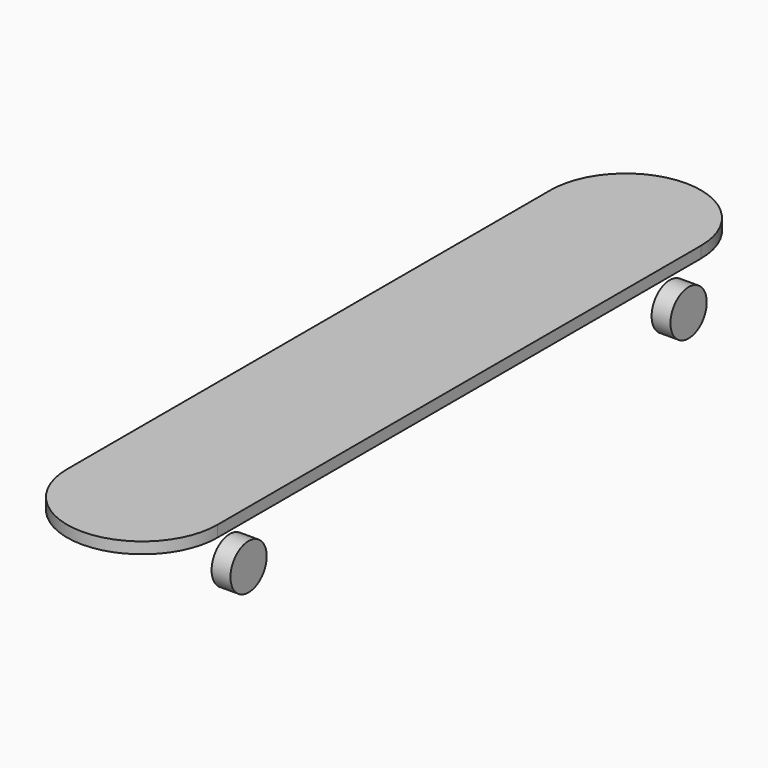
from build123d import *

# Parameters (mm, degrees)
F1_DEPTH = 15
F3_R     = 30
F4_DEPTH = 25


with BuildPart() as f1:
    # F0 (on Top) → F1 (new body)
    with BuildSketch(Plane.XY):
        with BuildLine():
            ThreePointArc((-99.576, 0), (0, -99.576), (99.576, 0))
            ThreePointArc((99.576, 0), (0, 99.576), (-99.576, 0))
        make_face()
        with BuildLine():
            Line((99.576, -800), (99.576, 0))
            ThreePointArc((99.576, 0), (0, -99.576), (-99.576, 0))
            Line((-99.576, 0), (-99.576, -800))
            ThreePointArc((-99.576, -800), (0, -700.424), (99.576, -800))
        make_face()
        with BuildLine():
            ThreePointArc((-99.576, -800), (0, -899.576), (99.576, -800))
            ThreePointArc((99.576, -800), (0, -700.424), (-99.576, -800))
        make_face()
    extrude(amount=F1_DEPTH)


with BuildPart() as f4:
    # F3 (on offset) → F4 (new body)
    with BuildSketch(Plane.YZ.offset(-115)):
        with Locations((-39.686717, -41.987389)):
            Circle(F3_R)
        with Locations((-767.851591, -41.987389)):
            Circle(F3_R)
    extrude(amount=F4_DEPTH)


with BuildPart() as f5_1:
    # F5: instance of F4
    add(f4.part.mirror(Plane.YZ))


solid = Compound([f1.part, f4.part, f5_1.part])
